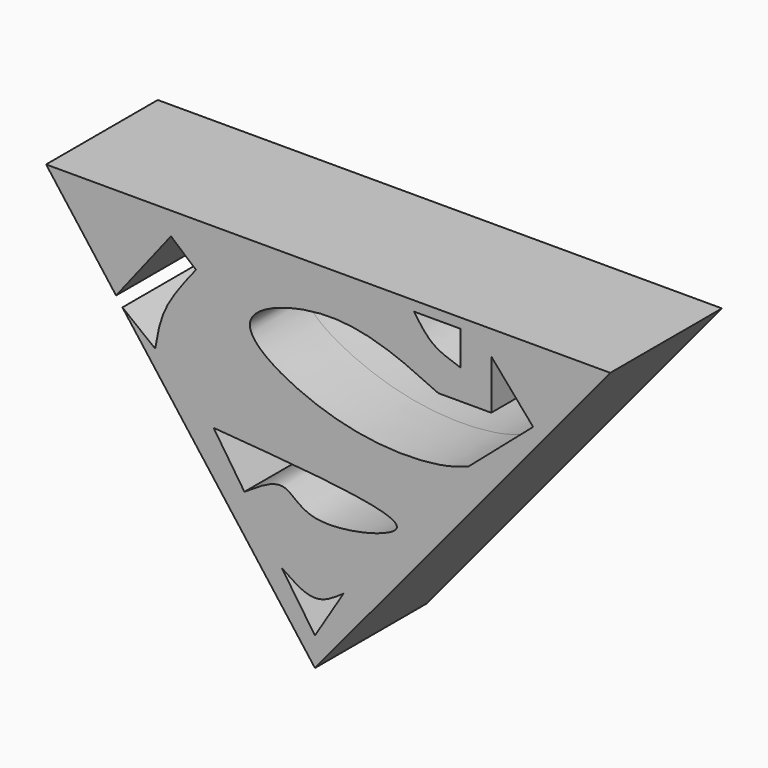
from build123d import *

# Parameters (mm, degrees)
F1_DEPTH = 25.4
F2_DEPTH = 25.4


with BuildPart() as f1:
    # F0 (on Front) → F1 (new body)
    with BuildSketch(Plane.XZ):
        with BuildLine():
            add(Edge.make_bspline(
                [(-58.1526309252, 29.0763173252), (-57.3944485836, 33.6060555396), (-55.735451373, 43.51768583), (-47.6849875937, 53.6522957583), (-43.3136858046, 59.1552630067)],
                knots=[0, 0, 0, 0, 0.457012427, 1, 1, 1, 1], degree=3))
            Line((-58.1526309252, 29.0763173252), (-70.0755358951, 38.4212955615))
            Line((-70.0755358951, 38.4212955615), (0, -54.3426312506))
            Line((0, -54.3426312506), (107.4821054935, 75.1973688602))
            Line((107.4821054935, 75.1973688602), (-97.8568419814, 75.1973688602))
            Line((-97.8568419814, 75.1973688602), (-72.3858691105, 41.4796465047))
            Line((-72.3858691105, 41.4796465047), (-52.398709141, 66.9805094186))
            Line((-52.398709141, 66.9805094186), (-43.3136858046, 59.1552630067))
        make_face()
        with BuildLine():
            Line((0, -43.9152643085), (-12.0315793902, -26.2689478695))
            add(Edge.make_bspline(
                [(-12.0315793902, -26.2689478695), (-7.9502584485, -29.0722343036), (-0.0731528122, -34.4826844213), (7.0128143878, -29.481163743), (10.4273688048, -27.0710531622)],
                knots=[0, 0, 0, 0, 0.5181244394, 1, 1, 1, 1], degree=3))
            Line((10.4273688048, -27.0710531622), (0, -43.9152643085))
        make_face(mode=Mode.SUBTRACT)
        with BuildLine():
            Line((-25.6673693657, -6.2163160183), (-36.8968434632, 10.6278946623))
            add(Edge.make_bspline(
                [(-25.6673693657, -6.2163160183), (-20.4830578723, -2.7544549925), (-10.4937320697, 3.9159886553), (-2.9527164106, -11.3177974238), (55.5830117713, 3.4662635099), (-2.2685347358, 7.9462817434), (-36.8968434632, 10.6278946623)],
                knots=[0, 0, 0, 0, 0.1842354441, 0.3549917627, 0.6139162093, 1, 1, 1, 1], degree=3))
        make_face(mode=Mode.SUBTRACT)
        with BuildLine():
            Line((64.1684234142, 48.3268424869), (64.1684234142, 66.3742125034))
            Line((64.1684234142, 66.3742125034), (79.4084221125, 48.7278960645))
            Line((79.4084221125, 48.7278960645), (55.7999456964, 28.3387598335))
            add(Edge.make_bspline(
                [(44.91789639, 48.3268424869), (32.04704438, 54.3565057976), (8.3630180819, 65.4518633008), (-38.923897459, 49.2555976275), (8.3485326302, 23.6329614756), (43.9216959455, 24.2382840196), (52.7085858822, 27.2715953593), (55.7999456964, 28.3387598335)],
                knots=[0, 0, 0, 0, 0.2364868494, 0.4351662776, 0.6542056796, 0.878344366, 1, 1, 1, 1], degree=3))
            Line((44.91789639, 48.3268424869), (64.1684234142, 48.3268424869))
        make_face(mode=Mode.SUBTRACT)
        with BuildLine():
            Line((36.0947363079, 71.5878978372), (52.9389493167, 71.5878978372))
            Line((52.9389493167, 71.5878978372), (52.9389493167, 59.1552630067))
            add(Edge.make_bspline(
                [(52.9389493167, 59.1552630067), (49.3383348837, 60.3084625182), (42.2079474395, 62.5921725544), (38.1189316992, 68.609249584), (36.0947363079, 71.5878978372)],
                knots=[0, 0, 0, 0, 0.5049675717, 1, 1, 1, 1], degree=3))
        make_face(mode=Mode.SUBTRACT)
    extrude(amount=F1_DEPTH)

    # F2 (add): a face of the model
    f2_faces = [f1.faces().sort_by_distance(p)[0] for p in [
        (-64.263853188, -25.4, 33.5577208375),
    ]]
    extrude(f2_faces, amount=F2_DEPTH)


solid = f1.part
